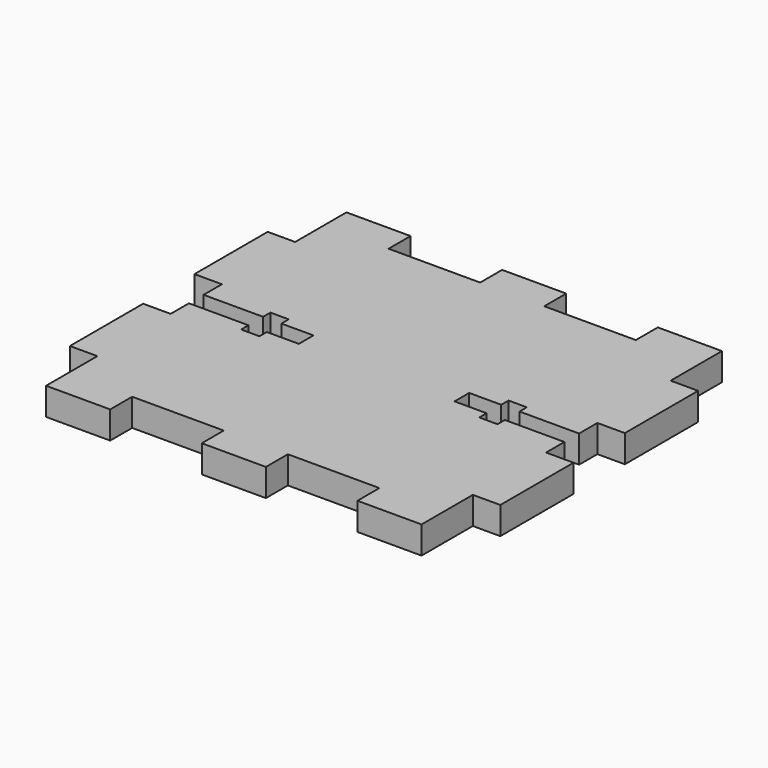
from build123d import *

# Parameters (mm, degrees)
F1_DEPTH = 3


with BuildPart() as f1:
    # F0 (on Top) → F1 (new body)
    with BuildSketch(Plane.XY):
        Polygon((-0.026424, -20.5), (3.473576, -20.5), (3.473576, -17.5), (13.473576, -17.5), (13.473576, -20.5), (20.473576, -20.5), (20.473576, -13.5), (23.473576, -13.5), (23.473576, -3.5), (20.473576, -3.5), (20.473576, -1), (13.973576, -1), (13.973576, -2), (11.973576, -2), (11.973576, -1), (8.473576, -1), (8.473576, 0), (8.473576, 1), (11.973576, 1), (11.973576, 2), (13.973576, 2), (13.973576, 1), (20.473576, 1), (20.473576, 3.5), (23.473576, 3.5), (23.473576, 13.5), (20.473576, 13.5), (20.473576, 20.5), (13.473576, 20.5), (13.473576, 17.5), (3.473576, 17.5), (3.473576, 20.5), (-0.026424, 20.5), (-3.526424, 20.5), (-3.526424, 17.5), (-13.526424, 17.5), (-13.526424, 20.5), (-20.526424, 20.5), (-20.526424, 13.5), (-23.526424, 13.5), (-23.526424, 3.5), (-20.526424, 3.5), (-20.526424, 1), (-14.026424, 1), (-14.026424, 2), (-12.026424, 2), (-12.026424, 1), (-8.526424, 1), (-8.526424, 0), (-8.526424, -1), (-12.026424, -1), (-12.026424, -2), (-14.026424, -2), (-14.026424, -1), (-20.526424, -1), (-20.526424, -3.5), (-23.526424, -3.5), (-23.526424, -13.5), (-20.526424, -13.5), (-20.526424, -20.5), (-13.526424, -20.5), (-13.526424, -17.5), (-3.526424, -17.5), (-3.526424, -20.5), align=None)
    extrude(amount=F1_DEPTH)


solid = f1.part
